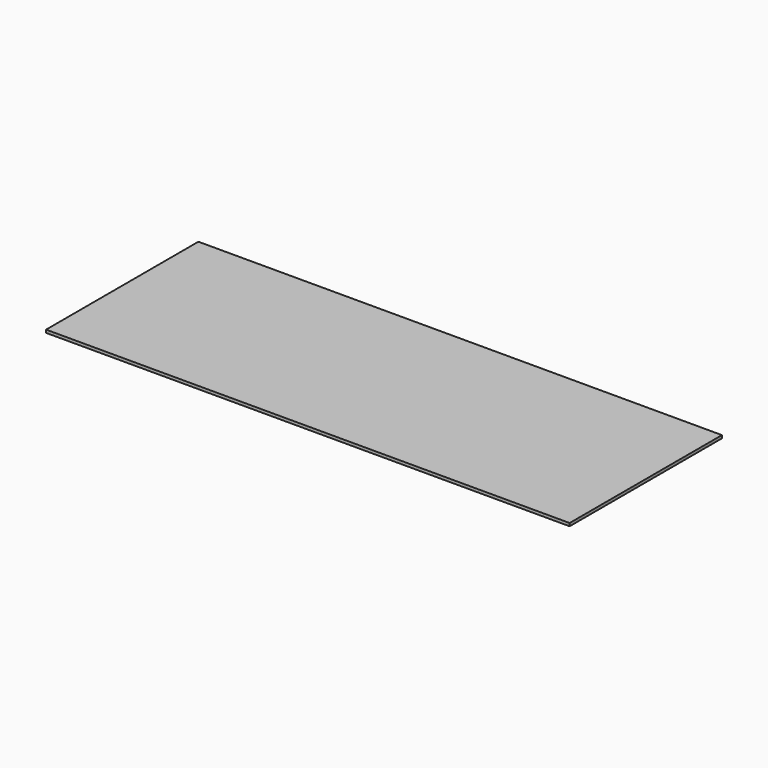
from build123d import *

# Parameters (mm, degrees)
F0_W     = 11000
F0_H     = 4000
F1_DEPTH = 60.96
F2_W     = 4000
F2_H     = 1955.003793
F3_DEPTH = 30.48


with BuildPart() as f1:
    # F0 (on Top) → F1 (new body)
    with BuildSketch(Plane.XY):
        Rectangle(F0_W, F0_H)
    extrude(amount=F1_DEPTH)


with BuildPart() as f3:
    # F2 (on face) → F3 (new body)
    with BuildSketch(Plane.YZ.offset(5500)):
        with Locations((0, 1038.461896)):
            Rectangle(F2_W, F2_H)
    extrude(amount=F3_DEPTH)


solid = f1.part
